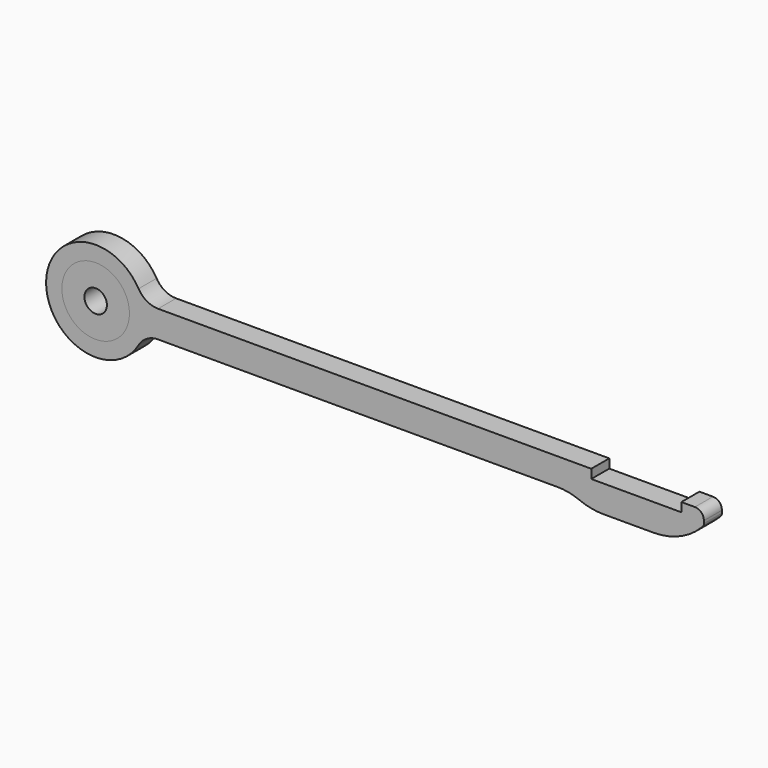
from build123d import *

# Parameters (mm, degrees)
F0_R     = 9.525
F1_DEPTH = 6.35
F2_R     = 9.525
F2_R_2   = 3.175
F3_DEPTH = 6.35


with BuildPart() as f1:
    # F0 (on Front) → F1 (new body)
    with BuildSketch(Plane.XZ):
        with BuildLine():
            ThreePointArc((17.597636, 3.81), (14.422636, 4.660739), (12.098375, 6.985))
            ThreePointArc((12.098375, 6.985), (-13.97, 0), (12.098375, -6.985))
            ThreePointArc((12.098375, -6.985), (14.422636, -4.660739), (17.597636, -3.81))
            Line((17.597636, -3.81), (130.170465, -3.81))
            ThreePointArc((130.170465, -3.81), (133.29263, -4.1079), (136.302125, -4.99085))
            Line((136.302125, -4.99085), (136.520789, -5.078316))
            ThreePointArc((136.520789, -5.078316), (139.761783, -6.029185), (143.124115, -6.35))
            Line((143.124115, -6.35), (157.209232, -6.35))
            ThreePointArc((157.209232, -6.35), (164.499351, -4.899905), (170.679616, -0.770384))
            Line((170.679616, -0.770384), (171.078026, -0.371974))
            ThreePointArc((171.078026, -0.371974), (171.353327, 0.040043), (171.45, 0.526051))
            Line((171.45, 0.526051), (171.45, 1.27))
            ThreePointArc((171.45, 1.27), (170.706051, 3.066051), (168.91, 3.81))
            Line((168.91, 3.81), (165.1, 3.81))
            Line((165.1, 3.81), (165.1, 1.27))
            Line((165.1, 1.27), (139.7, 1.27))
            Line((139.7, 1.27), (139.7, 3.81))
            Line((139.7, 3.81), (17.597636, 3.81))
        make_face()
        Circle(F0_R, mode=Mode.SUBTRACT)
    extrude(amount=F1_DEPTH)


with BuildPart() as f3:
    # F2 (on Front) → F3 (new body)
    with BuildSketch(Plane.XZ):
        Circle(F2_R)
        Circle(F2_R_2, mode=Mode.SUBTRACT)
    extrude(amount=F3_DEPTH)


solid = Compound([f1.part, f3.part])
